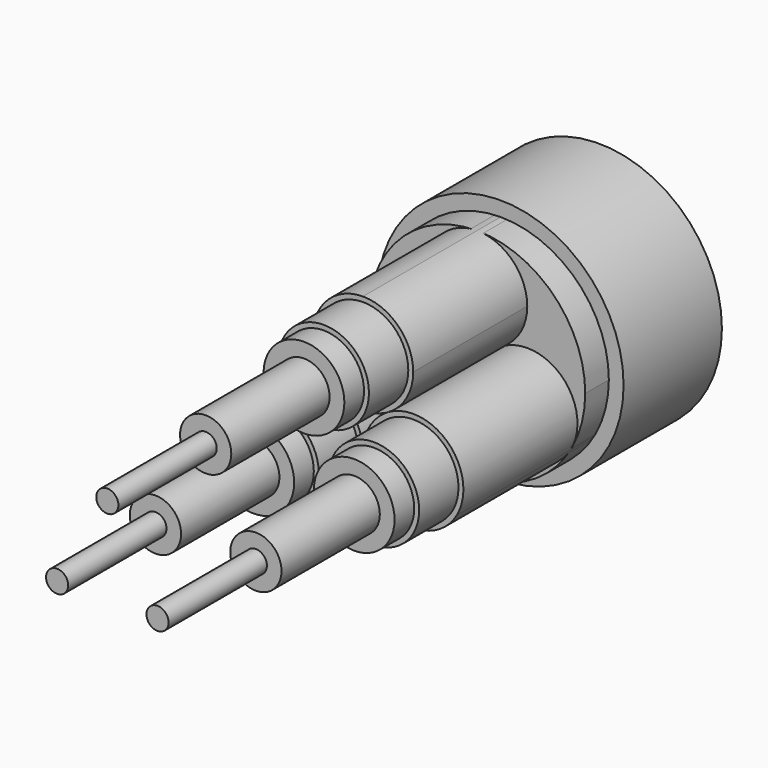
from build123d import *

# Parameters (mm, degrees)
F0_R     = 12.7
F1_DEPTH = 12.7
F0_R_2   = 4.6787996508
F0_R_3   = 4.1707996508
F0_R_4   = 2.6467996508
F0_R_5   = 1.143
F2_DEPTH = 15.748
F3_DEPTH = 30.48
F4_DEPTH = 35.56
F5_DEPTH = 38.1
F6_DEPTH = 50.8
F7_DEPTH = 63.5
F8_COUNT = 3


with BuildPart() as f1:
    # F0 (on Front) → F1 (new body)
    with BuildSketch(Plane.XZ):
        Circle(F0_R)
        with BuildLine():
            ThreePointArc((0, 11.176), (7.9026253865, 7.9026253865), (11.176, 0))
            ThreePointArc((11.176, 0), (-7.9026253865, -7.9026253865), (0, 11.176))
        make_face(mode=Mode.SUBTRACT)
    extrude(amount=F1_DEPTH)


with BuildPart() as f2:
    # F0 (on Front) → F2 (new body)
    with BuildSketch(Plane.XZ):
        with BuildLine():
            ThreePointArc((0, 11.176), (-7.9026253865, -7.9026253865), (11.176, 0))
            ThreePointArc((11.176, 0), (7.9026253865, 7.9026253865), (0, 11.176))
        make_face()
        with BuildLine():
            ThreePointArc((5.1867996508, 5.9892003492), (-3.6676212057, 2.3215791435), (0, 11.176))
            ThreePointArc((0, 11.176), (3.6676212057, 9.6568215549), (5.1867996508, 5.9892003492))
        make_face(mode=Mode.SUBTRACT)
        with BuildLine():
            ThreePointArc((5.1867996508, 5.9892003492), (3.6676212057, 9.6568215549), (0, 11.176))
            ThreePointArc((0, 11.176), (-3.6676212057, 2.3215791435), (5.1867996508, 5.9892003492))
        make_face()
        with Locations((0, 5.9892003492)):
            Circle(F0_R_2, mode=Mode.SUBTRACT)
        with Locations((0, 5.9892003492)):
            Circle(F0_R_2)
        with Locations((0, 5.9892003492)):
            Circle(F0_R_3, mode=Mode.SUBTRACT)
        with Locations((0, 5.9892003492)):
            Circle(F0_R_3)
        with Locations((0, 5.9892003492)):
            Circle(F0_R_4, mode=Mode.SUBTRACT)
        with Locations((0, 5.9892003492)):
            Circle(F0_R_4)
        with Locations((0, 5.9892003492)):
            Circle(F0_R_5, mode=Mode.SUBTRACT)
        with Locations((0, 5.9892003492)):
            Circle(F0_R_5)
    extrude(amount=F2_DEPTH)


with BuildPart() as f3:
    # F0 (on Front) → F3 (new body)
    with BuildSketch(Plane.XZ):
        with BuildLine():
            ThreePointArc((5.1867996508, 5.9892003492), (3.6676212057, 9.6568215549), (0, 11.176))
            ThreePointArc((0, 11.176), (-3.6676212057, 2.3215791435), (5.1867996508, 5.9892003492))
        make_face()
        with Locations((0, 5.9892003492)):
            Circle(F0_R_2, mode=Mode.SUBTRACT)
        with Locations((0, 5.9892003492)):
            Circle(F0_R_2)
        with Locations((0, 5.9892003492)):
            Circle(F0_R_3, mode=Mode.SUBTRACT)
        with Locations((0, 5.9892003492)):
            Circle(F0_R_3)
        with Locations((0, 5.9892003492)):
            Circle(F0_R_4, mode=Mode.SUBTRACT)
        with Locations((0, 5.9892003492)):
            Circle(F0_R_4)
        with Locations((0, 5.9892003492)):
            Circle(F0_R_5, mode=Mode.SUBTRACT)
        with Locations((0, 5.9892003492)):
            Circle(F0_R_5)
    extrude(amount=F3_DEPTH)


with BuildPart() as f4:
    # F0 (on Front) → F4 (new body)
    with BuildSketch(Plane.XZ):
        with Locations((0, 5.9892003492)):
            Circle(F0_R_2)
        with Locations((0, 5.9892003492)):
            Circle(F0_R_3, mode=Mode.SUBTRACT)
    extrude(amount=F4_DEPTH)


with BuildPart() as f5:
    # F0 (on Front) → F5 (new body)
    with BuildSketch(Plane.XZ):
        with Locations((0, 5.9892003492)):
            Circle(F0_R_3)
        with Locations((0, 5.9892003492)):
            Circle(F0_R_4, mode=Mode.SUBTRACT)
    extrude(amount=F5_DEPTH)


with BuildPart() as f6:
    # F0 (on Front) → F6 (new body)
    with BuildSketch(Plane.XZ):
        with Locations((0, 5.9892003492)):
            Circle(F0_R_4)
        with Locations((0, 5.9892003492)):
            Circle(F0_R_5, mode=Mode.SUBTRACT)
    extrude(amount=F6_DEPTH)


with BuildPart() as f7:
    # F0 (on Front) → F7 (new body)
    with BuildSketch(Plane.XZ):
        with Locations((0, 5.9892003492)):
            Circle(F0_R_5)
    extrude(amount=F7_DEPTH)


with BuildPart() as f8_1:
    # F8: instance of F7
    add(f7.part.rotate(Axis((0, -15.748, 0), (0, -1, 0)), 1 * 360 / F8_COUNT))


with BuildPart() as f8_2:
    # F8: instance of F7
    add(f7.part.rotate(Axis((0, -15.748, 0), (0, -1, 0)), 2 * 360 / F8_COUNT))


with BuildPart() as f8_3:
    # F8: instance of F4
    add(f4.part.rotate(Axis((0, -15.748, 0), (0, -1, 0)), 1 * 360 / F8_COUNT))


with BuildPart() as f8_4:
    # F8: instance of F4
    add(f4.part.rotate(Axis((0, -15.748, 0), (0, -1, 0)), 2 * 360 / F8_COUNT))


with BuildPart() as f8_5:
    # F8: instance of F5
    add(f5.part.rotate(Axis((0, -15.748, 0), (0, -1, 0)), 1 * 360 / F8_COUNT))


with BuildPart() as f8_6:
    # F8: instance of F5
    add(f5.part.rotate(Axis((0, -15.748, 0), (0, -1, 0)), 2 * 360 / F8_COUNT))


with BuildPart() as f8_7:
    # F8: instance of F6
    add(f6.part.rotate(Axis((0, -15.748, 0), (0, -1, 0)), 1 * 360 / F8_COUNT))


with BuildPart() as f8_8:
    # F8: instance of F6
    add(f6.part.rotate(Axis((0, -15.748, 0), (0, -1, 0)), 2 * 360 / F8_COUNT))


with BuildPart() as f8_9:
    # F8: instance of F3
    add(f3.part.rotate(Axis((0, -15.748, 0), (0, -1, 0)), 1 * 360 / F8_COUNT))


with BuildPart() as f8_10:
    # F8: instance of F3
    add(f3.part.rotate(Axis((0, -15.748, 0), (0, -1, 0)), 2 * 360 / F8_COUNT))


solid = Compound([f1.part, f2.part, f3.part, f4.part, f5.part, f6.part, f7.part, f8_1.part, f8_2.part, f8_3.part, f8_4.part, f8_5.part, f8_6.part, f8_7.part, f8_8.part, f8_9.part, f8_10.part])
